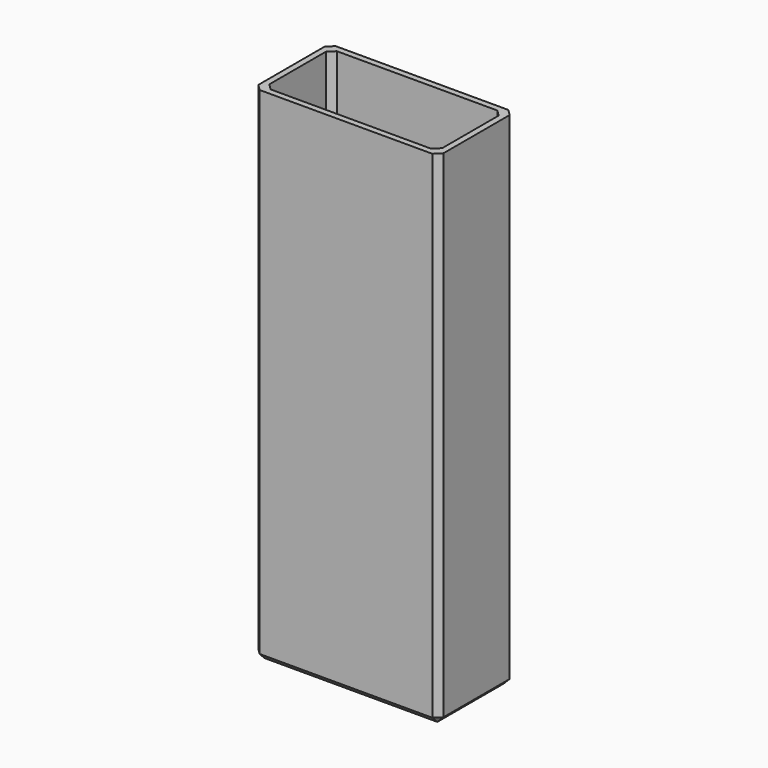
from build123d import *

# Parameters (mm, degrees)
F0_W     = 30.2
F0_H     = 15.5
F1_DEPTH = 82
F2_T     = -1
F3_SIZE  = 1
F4_SIZE  = 1


with BuildPart() as f1:
    # F0 (on Top) → F1 (new body)
    with BuildSketch(Plane.XY):
        with Locations((4.6029518125, -7.7385634869)):
            Rectangle(F0_W, F0_H)
    extrude(amount=F1_DEPTH)

    # F2
    f2_openings = [f1.faces().sort_by_distance(p)[0] for p in [
        (4.602952, -7.738563, 82),
    ]]
    offset(amount=F2_T, openings=f2_openings)

    # F3
    f3_edges = [f1.edges().sort_by_distance(p)[0] for p in [
        (19.702952, 0.011437, 41),
        (19.702952, -15.488563, 41),
        (-10.497048, 0.011437, 41),
        (-10.497048, -15.488563, 41),
        (4.602952, 0.011437, 0),
        (19.702952, -7.738563, 0),
        (4.602952, -15.488563, 0),
        (-10.497048, -7.738563, 0),
    ]]
    chamfer(f3_edges, length=F3_SIZE)

    # F4
    f4_edges = [f1.edges().sort_by_distance(p)[0] for p in [
        (-9.497048, -0.988563, 41.5),
        (18.702952, -0.988563, 41.5),
        (18.702952, -14.488563, 41.5),
        (-9.497048, -14.488563, 41.5),
    ]]
    chamfer(f4_edges, length=F4_SIZE)


solid = f1.part
